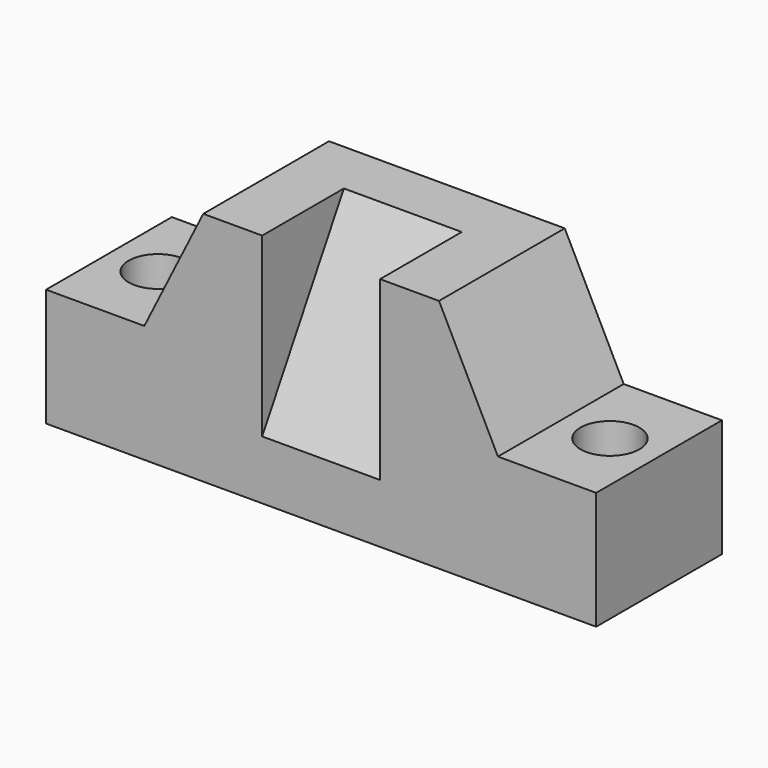
from build123d import *

# Parameters (mm, degrees)
SKETCH002_W  = 30
SKETCH002_H  = 40
PAD001_DEPTH = 85
PAD_DEPTH    = 40
SKETCH001_R  = 7.5
POCKET_DEPTH = 344.961315


with BuildPart() as pad001:
    # Sketch002 → Pad001 (new body)
    with BuildSketch(Plane(origin=(0, 0, 15), x_dir=(1, 0, 0), z_dir=(0, 0.5, 0.866025))):
        with Locations((0, -20)):
            Rectangle(SKETCH002_W, SKETCH002_H)
    extrude(amount=PAD001_DEPTH)


with BuildPart() as cut:
    # Sketch → Pad (new body)
    with BuildSketch(Plane.XZ):
        Polygon((-70, 0), (70, 0), (70, 30), (45, 30), (30, 60), (-30, 60), (-45, 30), (-70, 30), align=None)
    extrude(amount=-PAD_DEPTH)

    # Sketch001 → Pocket (cut, through all)
    with BuildSketch(Plane(origin=(0, 0, 30), x_dir=(-1, 0, 0), z_dir=(0, 0, 1))):
        with Locations((57.5, -20)):
            Circle(SKETCH001_R)
    pocket = extrude(amount=-POCKET_DEPTH, mode=Mode.SUBTRACT)

    # Mirrored: Pocket across Sketch001 V_Axis
    add(pocket.mirror(Plane(origin=(0, 0, 30), x_dir=(0, 0, 1), z_dir=(-1, 0, 0))), mode=Mode.SUBTRACT)

    # Cut: cut Pad001
    add(pad001.part, mode=Mode.SUBTRACT)


solid = cut.part
